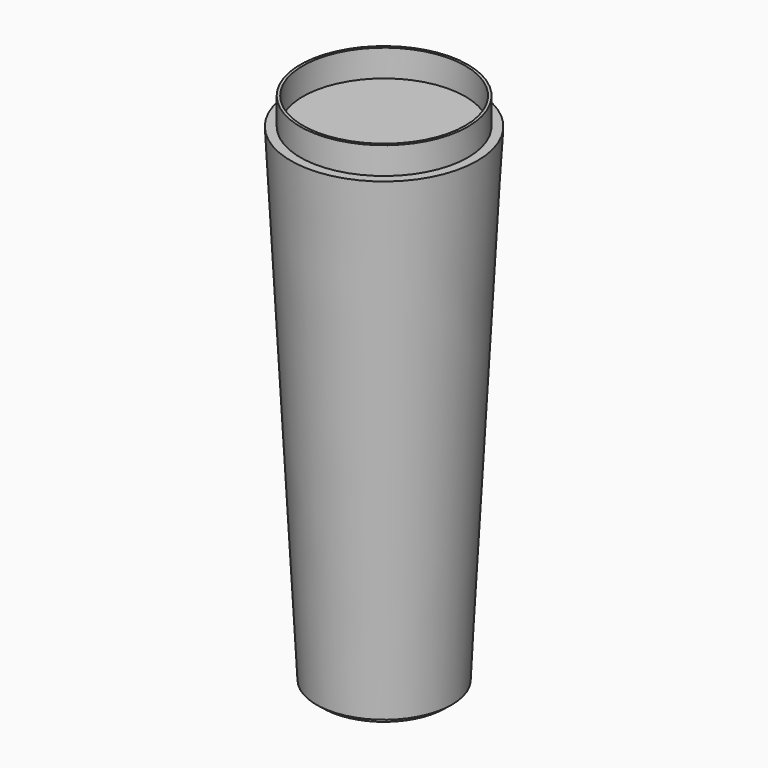
from build123d import *

# Parameters (mm, degrees)
F0_R     = 63.5
F1_DEPTH = 457.2
F1_TAPER = -3
F2_R     = 57.15
F2_R_2   = 50.8
F3_DEPTH = 5.08
F4_R     = 78.74
F4_R_2   = 76.2
F5_DEPTH = 25.4


with BuildPart() as f1:
    # F0 (on Top) → F1 (new body)
    with BuildSketch(Plane.XY):
        Circle(F0_R)
    extrude(amount=F1_DEPTH, taper=F1_TAPER)

    # F2 (on face) → F3 (join)
    with BuildSketch(Plane(origin=(0, 0, 0), x_dir=(1, 0, 0), z_dir=(0, 0, -1))):
        Circle(F2_R)
        Circle(F2_R_2, mode=Mode.SUBTRACT)
    extrude(amount=F3_DEPTH)

    # F4 (on face) → F5 (join)
    with BuildSketch(Plane.XY.offset(457.2)):
        Circle(F4_R)
        Circle(F4_R_2, mode=Mode.SUBTRACT)
    extrude(amount=F5_DEPTH)


solid = f1.part
